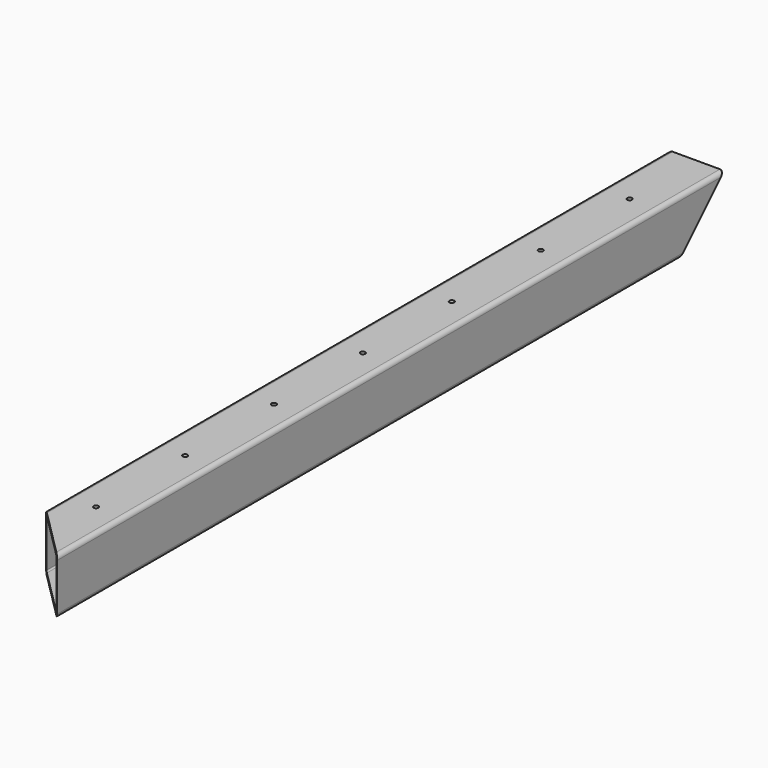
from build123d import *

# Parameters (mm, degrees)
F2_W            = 40
F2_H            = 40
F3_DEPTH        = 300
F4_R            = 3
F5_T            = -2
F7_DEPTH        = 40.001
F9_DEPTH        = 40.001
F11_D           = 3.5
F11_CSINK_D     = 6
F11_CSINK_ANGLE = 90


with BuildPart() as f3:
    # F2 (on Front) → F3 (new body, symmetric)
    with BuildSketch(Plane.XZ):
        Rectangle(F2_W, F2_H)
    extrude(amount=F3_DEPTH, both=True)

    # F4
    f4_edges = [f3.edges().sort_by_distance(p)[0] for p in [
        (20, 0, 20),
        (-20, 0, 20),
        (20, 0, -20),
        (-20, 0, -20),
    ]]
    fillet(f4_edges, radius=F4_R)

    # F5
    f5_openings = [f3.faces().sort_by_distance(p)[0] for p in [
        (0, -300, 0),
        (0, 300, 0),
    ]]
    offset(amount=F5_T, openings=f5_openings)

    # F6 (on face) → F7 (cut, through all)
    with BuildSketch(Plane(origin=(-20, 0, 0), x_dir=(0, -1, 0), z_dir=(-1, 0, 0))):
        Polygon((-300, 20), (-300, -20), (-260, -20), align=None)
    extrude(amount=-F7_DEPTH, mode=Mode.SUBTRACT)

    # F8 (on face) → F9 (cut, through all)
    with BuildSketch(Plane.XY.offset(20)):
        Polygon((-20, -260), (-20, -300), (20, -300), align=None)
    extrude(amount=-F9_DEPTH, mode=Mode.SUBTRACT)

    # F11 (through all)
    with Locations(Plane(origin=(0, 0, -20), x_dir=(1, 0, 0), z_dir=(0, 0, -1))):
        with Locations((0, -240), (0, -160), (0, -80), (0, 0), (0, 80), (0, 160), (0, 240)):
            CounterSinkHole(F11_D / 2, F11_CSINK_D / 2, counter_sink_angle=F11_CSINK_ANGLE)


solid = f3.part
